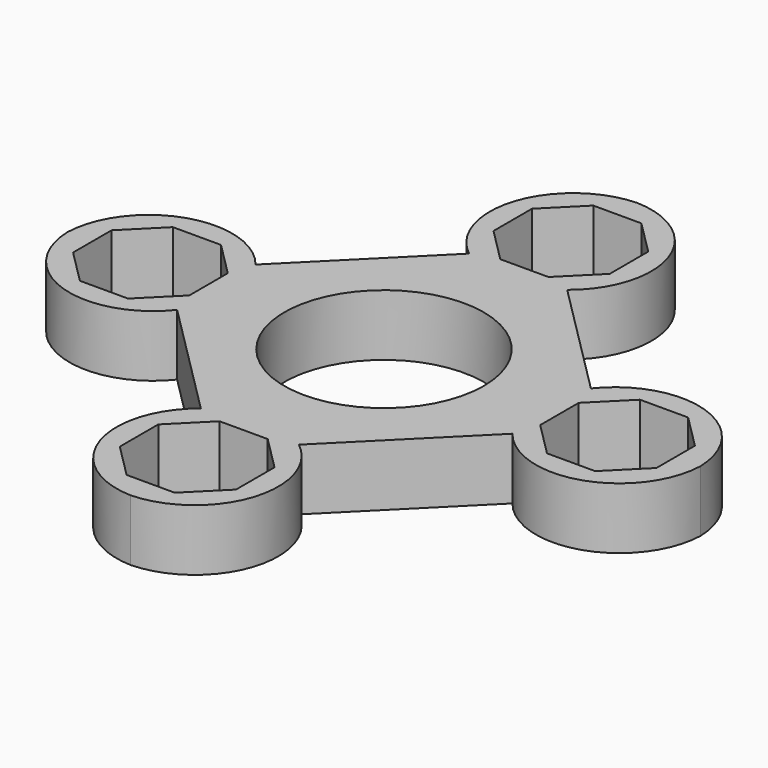
from build123d import *

# Parameters (mm, degrees)
F0_R     = 11.375
F1_DEPTH = 7


with BuildPart() as f1:
    # F0 (on Top) → F1 (new body)
    with BuildSketch(Plane.XY):
        Polygon((-5.591883, -19.115768), (-5.591883, -13.5), (-13.5, -5.591883), (-19.115768, -5.591883), align=None)
        Polygon((-13.5, 5.591883), (-5.591883, 13.5), (-5.591883, 19.115768), (-19.115768, 5.591883), align=None)
        with BuildLine():
            Line((-5.591883, 13.5), (5.591883, 13.5))
            Line((5.591883, 13.5), (5.591883, 19.115768))
            ThreePointArc((5.591883, 19.115768), (8.736079, 29.565264), (0, 36.104289))
            ThreePointArc((0, 36.104289), (-8.736079, 29.565264), (-5.591883, 19.115768))
            Line((-5.591883, 19.115768), (-5.591883, 13.5))
        make_face()
        Polygon((2.744165, 33.255364), (6.625, 29.374529), (6.625, 23.8862), (2.744165, 20.005364), (-2.744165, 20.005364), (-6.625, 23.8862), (-6.625, 29.374529), (-2.744165, 33.255364), align=None, mode=Mode.SUBTRACT)
        with BuildLine():
            Line((-13.5, -5.591883), (-13.5, 5.591883))
            Line((-13.5, 5.591883), (-19.115768, 5.591883))
            ThreePointArc((-19.115768, 5.591883), (-29.565264, 8.736079), (-36.104289, 0))
            ThreePointArc((-36.104289, 0), (-29.565264, -8.736079), (-19.115768, -5.591883))
            Line((-19.115768, -5.591883), (-13.5, -5.591883))
        make_face()
        Polygon((-20.005364, 2.744165), (-20.005364, -2.744165), (-23.8862, -6.625), (-29.374529, -6.625), (-33.255364, -2.744165), (-33.255364, 2.744165), (-29.374529, 6.625), (-23.8862, 6.625), align=None, mode=Mode.SUBTRACT)
        Polygon((5.591883, 13.5), (13.5, 5.591883), (19.115768, 5.591883), (5.591883, 19.115768), align=None)
        with BuildLine():
            Line((19.115768, 5.591883), (13.5, 5.591883))
            Line((13.5, 5.591883), (13.5, -5.591883))
            Line((13.5, -5.591883), (19.115768, -5.591883))
            ThreePointArc((19.115768, -5.591883), (29.565264, -8.736079), (36.104289, 0))
            ThreePointArc((36.104289, 0), (29.565264, 8.736079), (19.115768, 5.591883))
        make_face()
        Polygon((20.005364, -2.744165), (20.005364, 2.744165), (23.8862, 6.625), (29.374529, 6.625), (33.255364, 2.744165), (33.255364, -2.744165), (29.374529, -6.625), (23.8862, -6.625), align=None, mode=Mode.SUBTRACT)
        Polygon((19.115768, -5.591883), (13.5, -5.591883), (5.591883, -13.5), (5.591883, -19.115768), align=None)
        with BuildLine():
            Line((5.591883, -19.115768), (5.591883, -13.5))
            Line((5.591883, -13.5), (-5.591883, -13.5))
            Line((-5.591883, -13.5), (-5.591883, -19.115768))
            ThreePointArc((-5.591883, -19.115768), (-8.736079, -29.565264), (0, -36.104289))
            ThreePointArc((0, -36.104289), (8.736079, -29.565264), (5.591883, -19.115768))
        make_face()
        Polygon((-2.744165, -20.005364), (2.744165, -20.005364), (6.625, -23.8862), (6.625, -29.374529), (2.744165, -33.255364), (-2.744165, -33.255364), (-6.625, -29.374529), (-6.625, -23.8862), align=None, mode=Mode.SUBTRACT)
        Polygon((13.5, -5.591883), (13.5, 5.591883), (5.591883, 13.5), (-5.591883, 13.5), (-13.5, 5.591883), (-13.5, -5.591883), (-5.591883, -13.5), (5.591883, -13.5), align=None)
        Circle(F0_R, mode=Mode.SUBTRACT)
    extrude(amount=F1_DEPTH)


solid = f1.part
